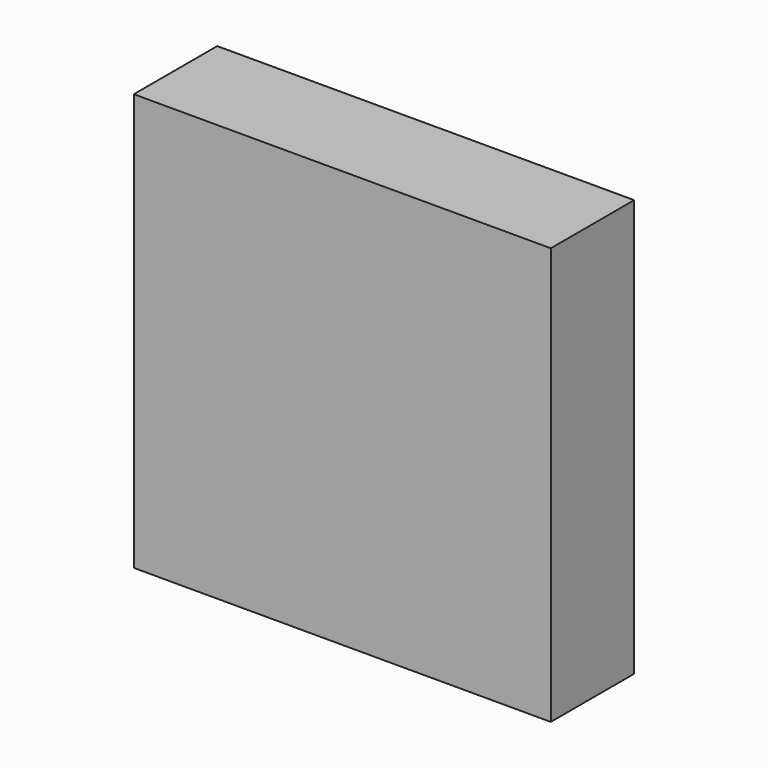
from build123d import *

# Parameters (mm, degrees)
F0_W     = 12.7
F0_H     = 12.7
F1_DEPTH = 3.175


with BuildPart() as f1:
    # F0 (on Front) → F1 (new body)
    with BuildSketch(Plane.XZ):
        Rectangle(F0_W, F0_H)
        Rectangle(F0_W, F0_H)
    extrude(amount=F1_DEPTH)


solid = f1.part
